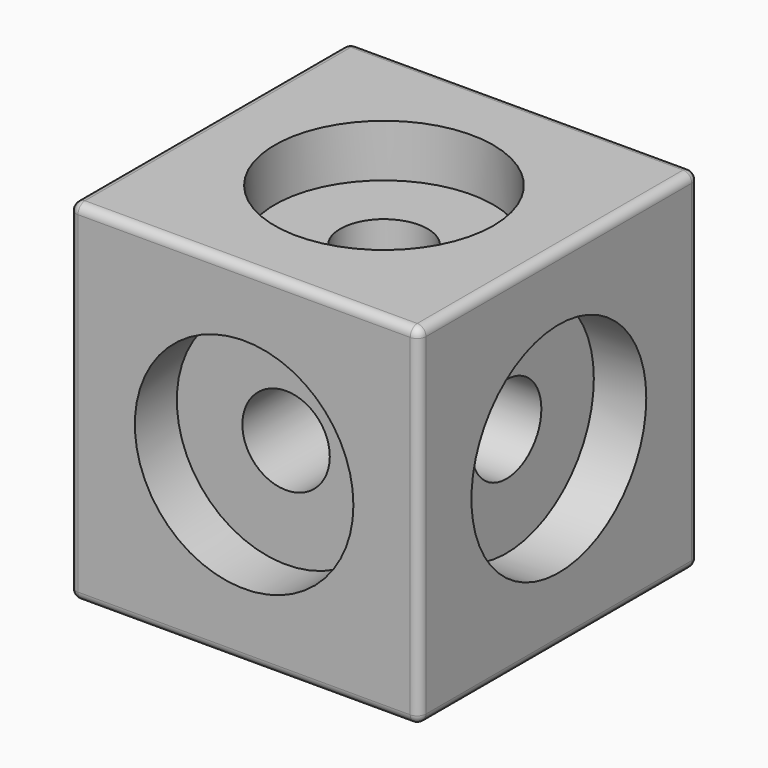
from build123d import *

# Parameters (mm, degrees)
F0_W      = 40
F0_H      = 40
F0_R      = 5
F1_DEPTH  = 20
F2_R      = 12.5
F3_DEPTH  = 6
F4_R      = 12.5
F5_DEPTH  = 6
F6_R      = 12.5
F7_DEPTH  = 6
F8_R      = 5
F9_DEPTH  = 20
F10_R     = 5
F11_DEPTH = 20
F12_R     = 12.5
F13_DEPTH = 6
F14_R     = 12.5
F15_DEPTH = 6
F16_R     = 12.5
F17_DEPTH = 6
F18_R     = 1


with BuildPart() as f1:
    # F0 (on Top) → F1 (new body, symmetric)
    with BuildSketch(Plane.XY):
        Rectangle(F0_W, F0_H)
        Circle(F0_R, mode=Mode.SUBTRACT)
        Rectangle(F0_W, F0_H)
        Circle(F0_R, mode=Mode.SUBTRACT)
    extrude(amount=F1_DEPTH, both=True)

    # F2 (on face) → F3 (cut)
    with BuildSketch(Plane.XZ.offset(20)):
        Circle(F2_R)
    extrude(amount=-F3_DEPTH, mode=Mode.SUBTRACT)

    # F4 (on face) → F5 (cut)
    with BuildSketch(Plane.XY.offset(20)):
        Circle(F4_R)
    extrude(amount=-F5_DEPTH, mode=Mode.SUBTRACT)

    # F6 (on face) → F7 (cut)
    with BuildSketch(Plane(origin=(-20, 0, 0), x_dir=(0, -1, 0), z_dir=(-1, 0, 0))):
        Circle(F6_R)
    extrude(amount=-F7_DEPTH, mode=Mode.SUBTRACT)

    # F8 (on Front) → F9 (cut, symmetric)
    with BuildSketch(Plane.XZ):
        Circle(F8_R)
    extrude(amount=F9_DEPTH, both=True, mode=Mode.SUBTRACT)

    # F10 (on Right) → F11 (cut, symmetric)
    with BuildSketch(Plane.YZ):
        Circle(F10_R)
    extrude(amount=F11_DEPTH, both=True, mode=Mode.SUBTRACT)

    # F12 (on face) → F13 (cut)
    with BuildSketch(Plane(origin=(0, 0, -20), x_dir=(1, 0, 0), z_dir=(0, 0, -1))):
        Circle(F12_R)
    extrude(amount=-F13_DEPTH, mode=Mode.SUBTRACT)

    # F14 (on face) → F15 (cut)
    with BuildSketch(Plane.YZ.offset(20)):
        Circle(F14_R)
    extrude(amount=-F15_DEPTH, mode=Mode.SUBTRACT)

    # F16 (on face) → F17 (cut)
    with BuildSketch(Plane(origin=(0, 20, 0), x_dir=(-1, 0, 0), z_dir=(0, 1, 0))):
        Circle(F16_R)
    extrude(amount=-F17_DEPTH, mode=Mode.SUBTRACT)

    # F18
    f18_edges = [f1.edges().sort_by_distance(p)[0] for p in [
        (-20, -20, 0),
        (-20, 0, -20),
        (0, -20, -20),
        (20, -20, 0),
        (0, -20, 20),
        (-20, 0, 20),
        (-20, 20, 0),
        (0, 20, -20),
        (20, 0, -20),
        (20, 0, 20),
        (0, 20, 20),
        (20, 20, 0),
    ]]
    fillet(f18_edges, radius=F18_R)


solid = f1.part
